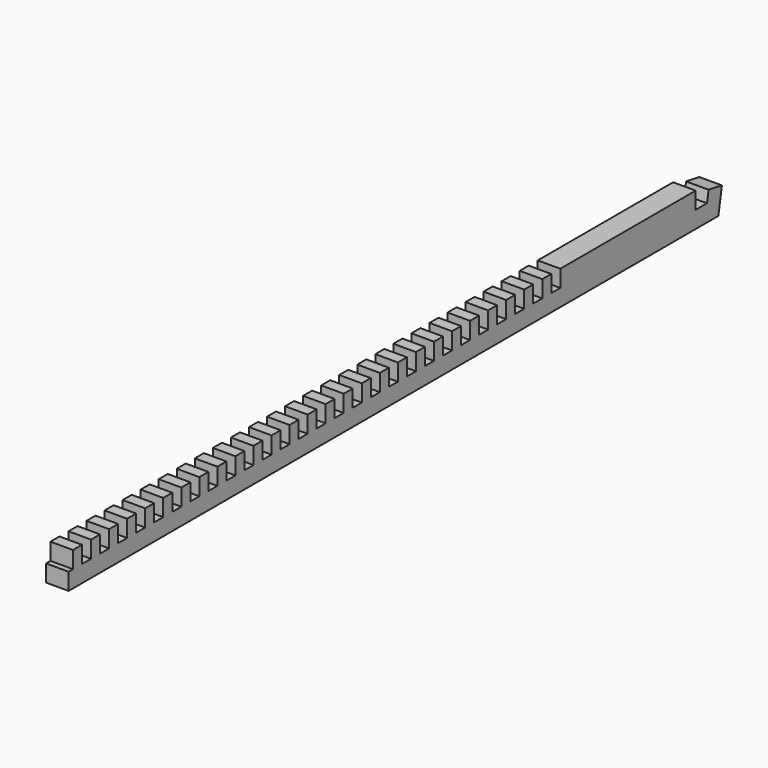
from build123d import *

# Parameters (mm, degrees)
F1_DEPTH = 12.7


with BuildPart() as f1:
    # F0 (on Right) → F1 (new body, symmetric)
    with BuildSketch(Plane.YZ):
        Polygon((425.230304, 6.35), (425.230304, 19.05), (234.730304, 19.05), (234.730304, 0), (222.030304, 0), (222.030304, 19.05), (209.330304, 19.05), (209.330304, 0), (196.630304, 0), (196.630304, 19.05), (183.930304, 19.05), (183.930304, 0), (171.230304, 0), (171.230304, 19.05), (158.530304, 19.05), (158.530304, 0), (145.830304, 0), (145.830304, 19.05), (133.130304, 19.05), (133.130304, 0), (120.430304, 0), (120.430304, 19.05), (107.730304, 19.05), (107.730304, 0), (95.030304, 0), (95.030304, 19.05), (82.330304, 19.05), (82.330304, 0), (69.630304, 0), (69.630304, 19.05), (56.930304, 19.05), (56.930304, 0), (44.230304, 0), (44.230304, 19.05), (31.530304, 19.05), (31.530304, 0), (18.830304, 0), (18.830304, 19.05), (6.130304, 19.05), (6.130304, 0), (-6.569696, 0), (-6.569696, 19.05), (-19.269696, 19.05), (-19.269696, 0), (-31.969696, 0), (-31.969696, 19.05), (-44.669696, 19.05), (-44.669696, 0), (-57.369696, 0), (-57.369696, 19.05), (-70.069696, 19.05), (-70.069696, 0), (-82.769696, 0), (-82.769696, 19.05), (-95.469696, 19.05), (-95.469696, 0), (-108.169696, 0), (-108.169696, 19.05), (-120.869696, 19.05), (-120.869696, 0), (-133.569696, 0), (-133.569696, 19.05), (-146.269696, 19.05), (-146.269696, 0), (-158.969696, 0), (-158.969696, 19.05), (-171.669696, 19.05), (-171.669696, 0), (-184.369696, 0), (-184.369696, 19.05), (-197.069696, 19.05), (-197.069696, 0), (-209.769696, 0), (-209.769696, 19.05), (-222.469696, 19.05), (-222.469696, 0), (-235.169696, 0), (-235.169696, 19.05), (-247.869696, 19.05), (-247.869696, 0), (-260.569696, 0), (-260.569696, 19.05), (-273.269696, 19.05), (-273.269696, 0), (-285.969696, 0), (-285.969696, 19.05), (-298.669696, 19.05), (-298.669696, 0), (-311.369696, 0), (-311.369696, 19.05), (-324.069696, 19.05), (-324.069696, 0), (-336.769696, 0), (-336.769696, 19.05), (-349.469696, 19.05), (-349.469696, 0), (-362.169696, 0), (-362.169696, 19.05), (-374.869696, 19.05), (-374.869696, 0), (-387.569696, 0), (-387.569696, 19.05), (-400.269696, 19.05), (-400.269696, 0), (-412.969696, 0), (-412.969696, 19.05), (-425.669696, 19.05), (-425.669696, 0), (-438.369696, 0), (-438.369696, 19.05), (-451.069696, 19.05), (-451.069696, 0), (-457.2, 0), (-457.2, -19.05), (457.2, -19.05), (462.181072, 9.199061), (443.420484, 12.507058), (441.215152, 0), (425.230304, 0), align=None)
    extrude(amount=F1_DEPTH, both=True)


solid = f1.part
